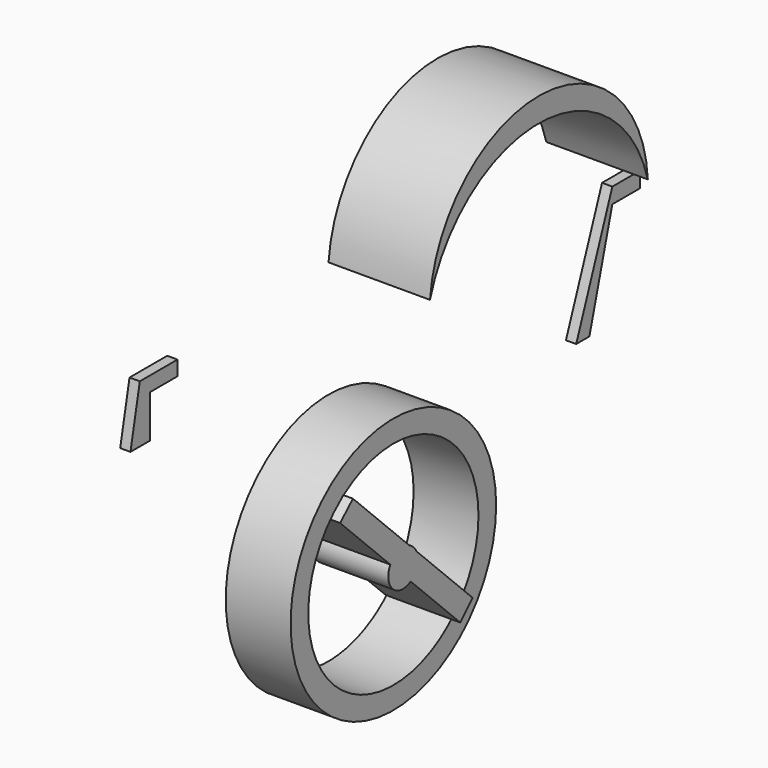
from build123d import *

# Parameters (mm, degrees)
F0_R      = 508
F0_R_2    = 420.6439468704
F1_DEPTH  = 256.54
F3_DEPTH  = 294.64
F5_DEPTH  = 401.32
F7_DEPTH  = 815.34
F9_DEPTH  = 40.64
F10_DEPTH = 38.1
F12_DEPTH = 40.64


with BuildPart() as f1:
    # F0 (on Right) → F1 (new body)
    with BuildSketch(Plane.YZ):
        Circle(F0_R)
        Circle(F0_R_2, mode=Mode.SUBTRACT)
    extrude(amount=F1_DEPTH)

    # F2 (on Right) → F3 (join)
    with BuildSketch(Plane.YZ):
        with BuildLine():
            ThreePointArc((37.8640968703, -62.4038721518), (63.6071358166, -35.8059403527), (72.9926920406, 0))
            ThreePointArc((72.9926920406, 0), (71.1434260152, 16.3262373548), (65.6893300543, 31.8252259749))
            Line((65.6893300543, 31.8252259749), (31.1544355507, 66.0101070811))
            ThreePointArc((31.1544355507, 66.0101070811), (-21.3838451619, 69.7901444147), (-62.7863341252, 37.2264601924))
            Line((-62.7863341252, 37.2264601924), (37.8640968703, -62.4038721518))
        make_face()
        with BuildLine():
            ThreePointArc((65.6893300543, 31.8252259749), (71.1434260152, 16.3262373548), (72.9926920406, 0))
            ThreePointArc((72.9926920406, 0), (63.6071358166, -35.8059403527), (37.8640968703, -62.4038721518))
            Line((37.8640968703, -62.4038721518), (282.742112875, -304.8000335693))
            Line((282.742112875, -304.8000335693), (343.6251143049, -243.2936610617))
            Line((343.6251143049, -243.2936610617), (65.6893300543, 31.8252259749))
        make_face()
        with BuildLine():
            Line((31.1544355507, 66.0101070811), (65.6893300543, 31.8252259749))
            ThreePointArc((65.6893300543, 31.8252259749), (51.3500755423, 51.8758405536), (31.1544355507, 66.0101070811))
        make_face()
        with BuildLine():
            ThreePointArc((-62.7863341252, 37.2264601924), (-51.3500755423, -51.8758405536), (37.8640968703, -62.4038721518))
            Line((37.8640968703, -62.4038721518), (-62.7863341252, 37.2264601924))
        make_face()
        with BuildLine():
            ThreePointArc((-62.7863341252, 37.2264601924), (-21.3838451619, 69.7901444147), (31.1544355507, 66.0101070811))
            Line((31.1544355507, 66.0101070811), (-247.5991393836, 341.9384964397))
            Line((-247.5991393836, 341.9384964397), (-310.8157813549, 282.742112875))
            Line((-310.8157813549, 282.742112875), (-62.7863341252, 37.2264601924))
        make_face()
    extrude(amount=F3_DEPTH)


with BuildPart() as f5:
    # F4 (on Right) → F5 (new body)
    with BuildSketch(Plane.YZ):
        with BuildLine():
            Line((0, 968.0234789848), (1076.6899585724, 949.4888782501))
            ThreePointArc((1076.6899585724, 949.4888782501), (546.9629750359, 1459.3825271205), (0, 968.0234789848))
        make_face()
    extrude(amount=F5_DEPTH)

    # F6 (on face) → F7 (cut)
    with BuildSketch(Plane.YZ.offset(401.32)):
        with BuildLine():
            Line((0, 968.0234789848), (1076.6899585724, 949.4888782501))
            ThreePointArc((1076.6899585724, 949.4888782501), (545.3180750446, 1363.8289552401), (0, 968.0234789848))
        make_face()
    extrude(amount=-F7_DEPTH, mode=Mode.SUBTRACT)


with BuildPart() as f9:
    # F8 (on Right) → F9 (new body)
    with BuildSketch(Plane.YZ):
        Polygon((1488.3697451586, 695.3280602446), (1352.127020076, 695.3280602446), (1173.6171278574, 219.7250552287), (1238.8656338662, 219.7250552287), (1352.127020076, 633.799109388), (1488.3697451586, 633.799109388), align=None)
    extrude(amount=F9_DEPTH)

    # F8 (on Right) → F10 (join)
    with BuildSketch(Plane.YZ):
        Polygon((1488.3697451586, 695.3280602446), (1352.127020076, 695.3280602446), (1173.6171278574, 219.7250552287), (1238.8656338662, 219.7250552287), (1352.127020076, 633.799109388), (1488.3697451586, 633.799109388), align=None)
    extrude(amount=F10_DEPTH)


with BuildPart() as f12:
    # F11 (on Right) → F12 (new body)
    with BuildSketch(Plane.YZ):
        Polygon((-797.0792651176, 966.9497013092), (-863.0927801132, 966.9497013092), (-983.4704399109, 966.9497013092), (-1029.6372175217, 739.879488945), (-932.9894781113, 739.879488945), (-932.9894781113, 908.7024331093), (-797.0792651176, 908.7024331093), align=None)
    extrude(amount=F12_DEPTH)


solid = Compound([f1.part, f5.part, f9.part, f12.part])
